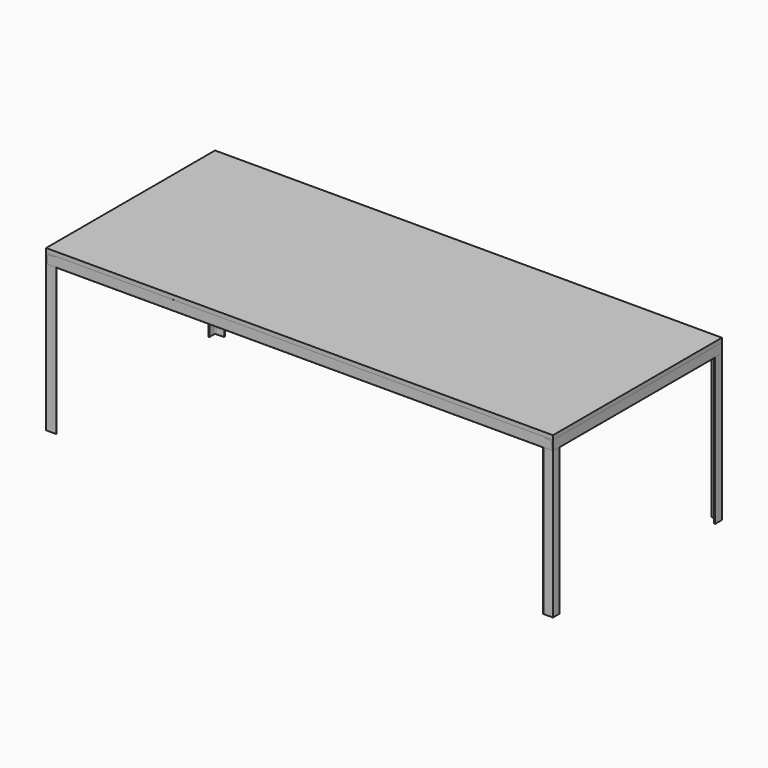
from build123d import *

# Parameters (mm, degrees)
F1_DEPTH  = 74
F7_DEPTH  = 240
F11_DEPTH = 100
F15_START = 74
F14_W     = 239.9997659668
F14_H     = 99.9997994222
F15_DEPTH = 2


with BuildPart() as f1:
    # F0 (on Top) → F1 (new body)
    with BuildSketch(Plane.XY):
        with BuildLine():
            Line((0, 4), (0, 0))
            Line((0, 0), (4.515946983, 0))
            ThreePointArc((4.515946983, 0), (4.6453692955, 0.0536084771), (4.6989777726, 0.1830307896))
            Line((4.6989777726, 0.1830307896), (4.6989777726, 0.3275845574))
            ThreePointArc((4.6989777726, 0.3275845574), (4.6491750725, 0.4530857371), (4.5268696138, 0.5102891444))
            Line((4.5268696138, 0.5102891444), (0.9701617667, 0.7229198578))
            ThreePointArc((0.9701617667, 0.7229198578), (0.6360500607, 0.8791870283), (0.5, 1.2220287435))
            Line((0.5, 1.2220287435), (0.5, 4))
            Line((0.5, 4), (0, 4))
        make_face()
    extrude(amount=F1_DEPTH)


with BuildPart() as f3_1:
    # F3: instance of F1
    add(f1.part.mirror(Plane.XZ.offset(-50)))


with BuildPart() as f5_1:
    # F5: instance of F1
    add(f1.part.mirror(Plane.YZ.offset(120)))


with BuildPart() as f5_2:
    # F5: instance of F3_1
    add(f3_1.part.mirror(Plane.YZ.offset(120)))


with BuildPart() as f7:
    # F6 (on Right) → F7 (new body)
    with BuildSketch(Plane.YZ):
        with BuildLine():
            Line((0.1830307896, 69.3010222274), (0.3275845574, 69.3010222274))
            ThreePointArc((0.3275845574, 69.3010222274), (0.4530857371, 69.3508249275), (0.5102891444, 69.4731303862))
            Line((0.5102891444, 69.4731303862), (0.7229198578, 73.0298382333))
            ThreePointArc((0.7229198578, 73.0298382333), (0.8791870283, 73.3639499393), (1.2220287435, 73.5))
            Line((1.2220287435, 73.5), (4, 73.5))
            Line((4, 73.5), (4, 74))
            Line((4, 74), (0, 74))
            Line((0, 74), (0, 69.484053017))
            ThreePointArc((0, 69.484053017), (0.0536084771, 69.3546307045), (0.1830307896, 69.3010222274))
        make_face()
    extrude(amount=F7_DEPTH)


with BuildPart() as f9_1:
    # F9: instance of F7
    add(f7.part.mirror(Plane.XZ.offset(-50)))


with BuildPart() as f11:
    # F10 (on Front) → F11 (new body)
    with BuildSketch(Plane.XZ):
        with BuildLine():
            Line((0.1830307896, 69.3010222274), (0.3275845574, 69.3010222274))
            ThreePointArc((0.3275845574, 69.3010222274), (0.4530857371, 69.3508249275), (0.5102891444, 69.4731303862))
            Line((0.5102891444, 69.4731303862), (0.7229198578, 73.0298382333))
            ThreePointArc((0.7229198578, 73.0298382333), (0.8791870283, 73.3639499393), (1.2220287435, 73.5))
            Line((1.2220287435, 73.5), (4, 73.5))
            Line((4, 73.5), (4, 74))
            Line((4, 74), (0, 74))
            Line((0, 74), (0, 69.484053017))
            ThreePointArc((0, 69.484053017), (0.0536084771, 69.3546307045), (0.1830307896, 69.3010222274))
        make_face()
    extrude(amount=-F11_DEPTH)


with BuildPart() as f13_1:
    # F13: instance of F11
    add(f11.part.mirror(Plane.YZ.offset(120)))


with BuildPart() as f15:
    # F14 (on Top) → F15 (new body)
    with BuildSketch(Plane.XY.offset(F15_START)):
        with Locations((120.000096751, 50.0001315813)):
            Rectangle(F14_W, F14_H)
    extrude(amount=F15_DEPTH)


solid = Compound([f1.part, f3_1.part, f5_1.part, f5_2.part, f7.part, f9_1.part, f11.part, f13_1.part, f15.part])
